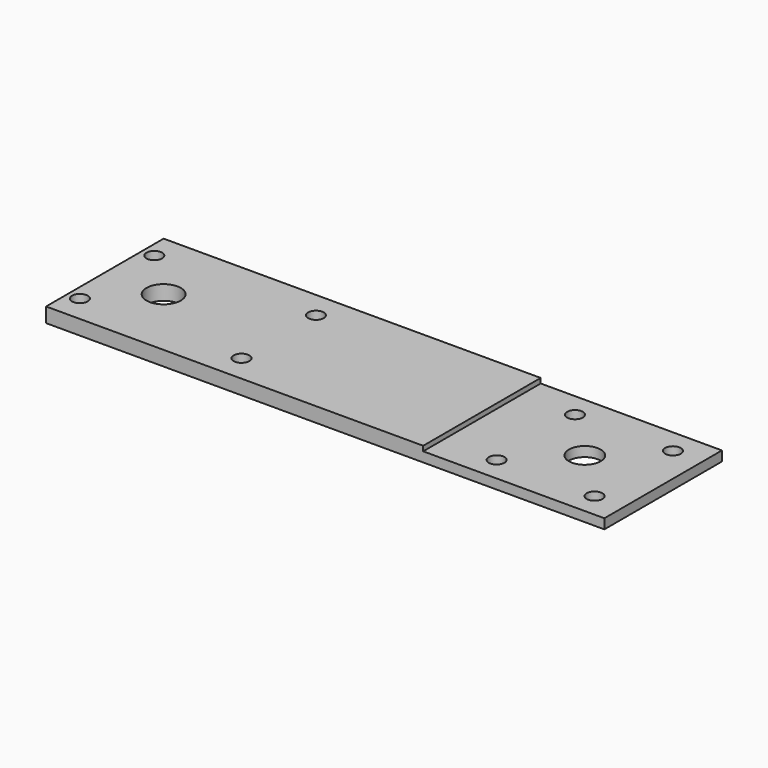
from build123d import *

# Parameters (mm, degrees)
SKETCH_W     = 114
SKETCH_H     = 30
SKETCH_R     = 3.25
SKETCH_R_2   = 1.6
SKETCH_R_3   = 3.5
PAD_DEPTH    = 3
SKETCH001_W  = 44.703079
SKETCH001_H  = 47.60326
POCKET_DEPTH = 1


with BuildPart() as part:
    # Sketch → Pad (new body)
    with BuildSketch(Plane.XY):
        Rectangle(SKETCH_W, SKETCH_H)
        with Locations((41, 0)):
            Circle(SKETCH_R, mode=Mode.SUBTRACT)
        with Locations((51, 10)):
            Circle(SKETCH_R_2, mode=Mode.SUBTRACT)
        with Locations((31, 10)):
            Circle(SKETCH_R_2, mode=Mode.SUBTRACT)
        with Locations((31, -10)):
            Circle(SKETCH_R_2, mode=Mode.SUBTRACT)
        with Locations((51, -10)):
            Circle(SKETCH_R_2, mode=Mode.SUBTRACT)
        with Locations((-45, 0)):
            Circle(SKETCH_R_3, mode=Mode.SUBTRACT)
        with Locations((-54.5, 9.5)):
            Circle(SKETCH_R_2, mode=Mode.SUBTRACT)
        with Locations((-21.5, 9.5)):
            Circle(SKETCH_R_2, mode=Mode.SUBTRACT)
        with Locations((-21.5, -9.5)):
            Circle(SKETCH_R_2, mode=Mode.SUBTRACT)
        with Locations((-54.5, -9.5)):
            Circle(SKETCH_R_2, mode=Mode.SUBTRACT)
    extrude(amount=PAD_DEPTH)

    # Sketch001 (on Face16 of Pad) → Pocket (cut)
    with BuildSketch(Plane.XY.offset(3)):
        with Locations((42.35154, 0.341099)):
            Rectangle(SKETCH001_W, SKETCH001_H)
    extrude(amount=-POCKET_DEPTH, mode=Mode.SUBTRACT)


solid = part.part
